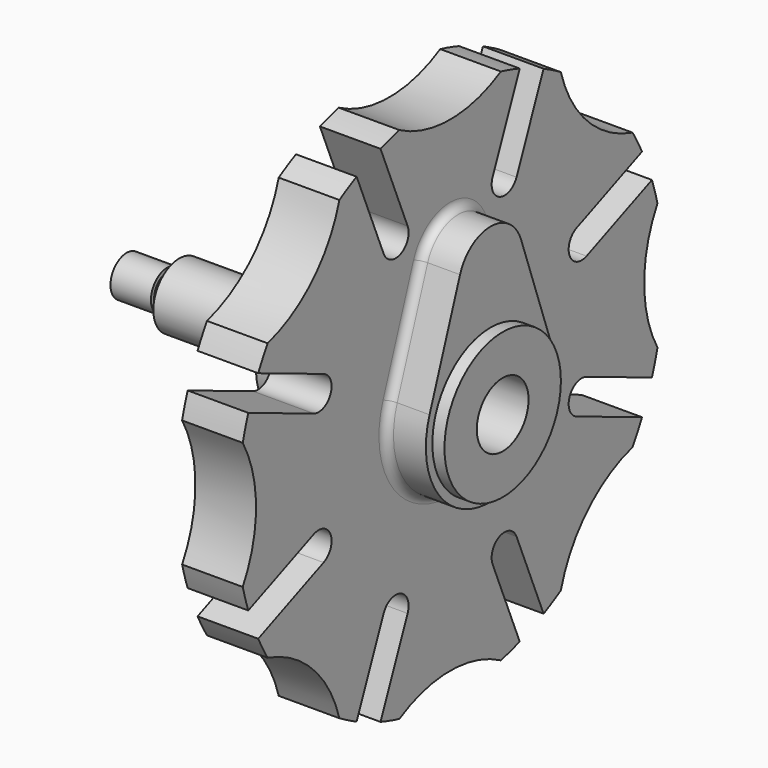
from build123d import *

# Parameters (mm, degrees)
SKETCH_R              = 66
PAD_DEPTH             = 15
SKETCH001_R           = 32
POCKET_DEPTH          = 389.556737
POLARPATTERN_COUNT    = 8
POCKET001_DEPTH       = 378.893286
POLARPATTERN001_COUNT = 8
PAD001_DEPTH          = 10
SKETCH004_R           = 18
PAD002_DEPTH          = 3
SKETCH005_R           = 18
PAD003_DEPTH          = 3
SKETCH006_R           = 8
POCKET002_DEPTH       = 31.001
SKETCH007_R           = 15
PAD004_DEPTH          = 18
SKETCH008_R           = 8
PAD005_DEPTH          = 31
SKETCH009_R           = 4
PAD006_DEPTH          = 3
SKETCH010_R           = 5
PAD007_DEPTH          = 10
FILLET_R              = 2
FILLET001_R           = 2


with BuildPart() as part:
    # Sketch → Pad (new body)
    with BuildSketch(Plane.YZ):
        Circle(SKETCH_R)
    extrude(amount=PAD_DEPTH)

    # Sketch001 (on Face3 of Pad) → Pocket (cut, through all)
    with BuildSketch(Plane.YZ.offset(15)):
        with Locations((-92, 0)):
            Circle(SKETCH001_R)
    pocket = extrude(amount=-POCKET_DEPTH, mode=Mode.SUBTRACT)

    # PolarPattern: Pocket ×8 about axis
    polarpattern_axis = Axis((15, 0, 0), (1, 0, 0))
    for i in range(1, POLARPATTERN_COUNT):
        add(pocket.rotate(polarpattern_axis, i * 360 / POLARPATTERN_COUNT), mode=Mode.SUBTRACT)

    # Sketch002 (on Face1 of PolarPattern) → Pocket001 (cut, through all)
    with BuildSketch(Plane.YZ.offset(15)):
        with BuildLine():
            ThreePointArc((-63.774583, 30.745866), (-69.000835, 28.581082), (-66.836051, 23.35483))
            Line((-66.836051, 23.35483), (-42.181433, 13.142553))
            ThreePointArc((-42.181433, 13.142553), (-36.955181, 15.307337), (-39.119966, 20.533589))
            Line((-39.119966, 20.533589), (-63.774583, 30.745866))
        make_face()
    pocket001 = extrude(amount=-POCKET001_DEPTH, mode=Mode.SUBTRACT)

    # PolarPattern001: Pocket001 ×8 about axis
    polarpattern001_axis = Axis((15, 0, 0), (1, 0, 0))
    for i in range(1, POLARPATTERN001_COUNT):
        add(pocket001.rotate(polarpattern001_axis, i * 360 / POLARPATTERN001_COUNT), mode=Mode.SUBTRACT)

    # Sketch003 (on Face1 of PolarPattern001) → Pad001 (join)
    with BuildSketch(Plane.YZ.offset(15)):
        with BuildLine():
            ThreePointArc((9.42809, 33.333333), (0, 40), (-9.42809, 33.333333))
            Line((-9.42809, 33.333333), (-18.856181, 6.666667))
            ThreePointArc((-18.856181, 6.666667), (0, -20), (18.856181, 6.666667))
            Line((18.856181, 6.666667), (9.42809, 33.333333))
        make_face()
    extrude(amount=PAD001_DEPTH)

    # Sketch004 (on Face55 of Pad001) → Pad002 (join)
    with BuildSketch(Plane.YZ.offset(25)):
        Circle(SKETCH004_R)
    extrude(amount=PAD002_DEPTH)

    # Sketch005 (on Face54 of Pad002) → Pad003 (join)
    with BuildSketch(Plane(origin=(0, 0, 0), x_dir=(0, 1, 0), z_dir=(-1, 0, 0))):
        Circle(SKETCH005_R)
    extrude(amount=PAD003_DEPTH)

    # Sketch006 (on Face59 of Pad003) → Pocket002 (cut, through all)
    with BuildSketch(Plane.YZ.offset(28)):
        Circle(SKETCH006_R)
    extrude(amount=-POCKET002_DEPTH, mode=Mode.SUBTRACT)

    # Sketch007 (on Face58 of Pocket002) → Pad004 (join)
    with BuildSketch(Plane(origin=(-3, 0, 0), x_dir=(0, 1, 0), z_dir=(-1, 0, 0))):
        Circle(SKETCH007_R)
    extrude(amount=PAD004_DEPTH)

    # Sketch008 (on Face62 of Pad004) → Pad005 (join)
    with BuildSketch(Plane(origin=(-21, 0, 0), x_dir=(0, 1, 0), z_dir=(-1, 0, 0))):
        Circle(SKETCH008_R)
    extrude(amount=PAD005_DEPTH)

    # Sketch009 (on Face65 of Pad005) → Pad006 (join)
    with BuildSketch(Plane(origin=(-52, 0, 0), x_dir=(0, 1, 0), z_dir=(-1, 0, 0))):
        Circle(SKETCH009_R)
    extrude(amount=PAD006_DEPTH)

    # Sketch010 (on Face67 of Pad006) → Pad007 (join)
    with BuildSketch(Plane(origin=(-55, 0, 0), x_dir=(0, 1, 0), z_dir=(-1, 0, 0))):
        Circle(SKETCH010_R)
    extrude(amount=PAD007_DEPTH)

    # Fillet
    fillet_edges = [part.edges().sort_by_distance(p)[0] for p in [
        (0, -18, 0),
    ]]
    fillet(fillet_edges, radius=FILLET_R)

    # Fillet001
    fillet001_edges = [part.edges().sort_by_distance(p)[0] for p in [
        (15, 0, -20),
    ]]
    fillet(fillet001_edges, radius=FILLET001_R)


solid = part.part
